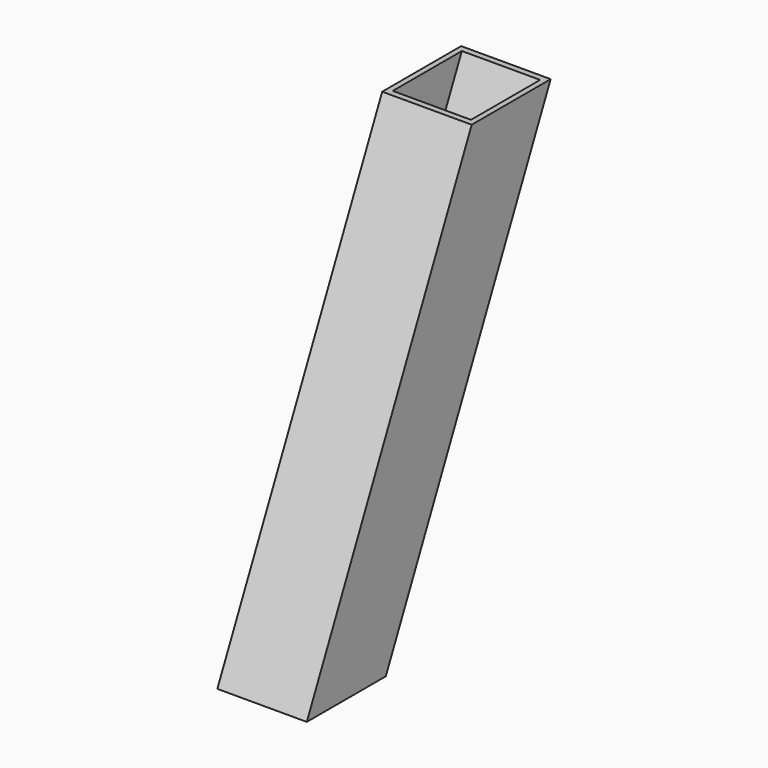
from build123d import *

# Parameters (mm, degrees)
F1_DEPTH = 50.8
F2_T     = -3.175


with BuildPart() as f1:
    # F0 (on Right) → F1 (new body)
    with BuildSketch(Plane.YZ):
        Polygon((0, -36.428121), (117.0012, 214.481761), (60.949601, 214.481761), (-56.051598, -36.428121), align=None)
    extrude(amount=F1_DEPTH)

    # F2
    f2_openings = [f1.faces().sort_by_distance(p)[0] for p in [
        (25.4, -28.025799, -36.428121),
        (25.4, 88.975401, 214.481761),
    ]]
    offset(amount=F2_T, openings=f2_openings)


solid = f1.part
